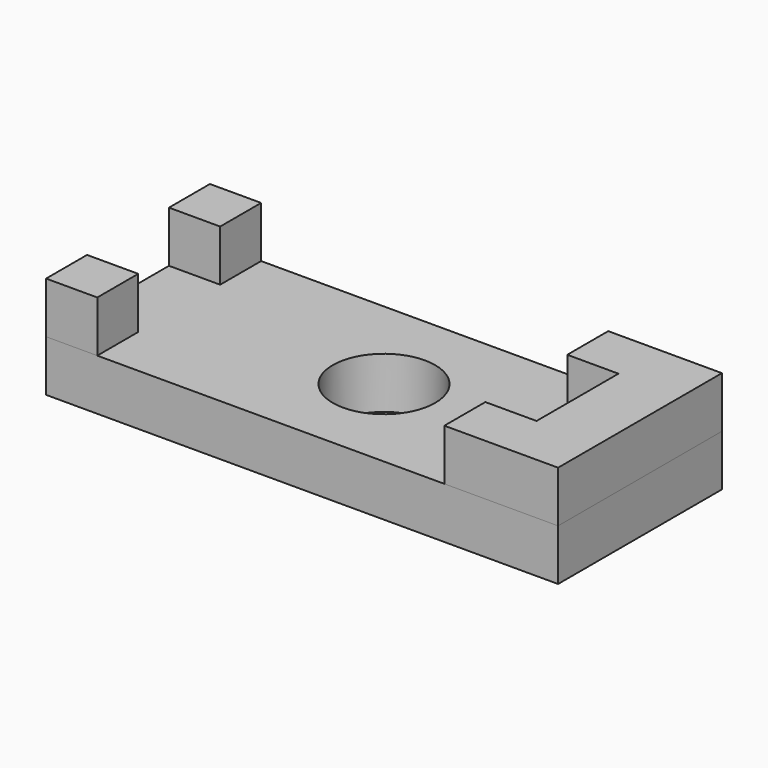
from build123d import *

# Parameters (mm, degrees)
F0_W     = 5
F0_H     = 5
F1_DEPTH = 10
F0_R     = 5
F2_DEPTH = 5


with BuildPart() as f1:
    # F0 (on Top) → F1 (new body)
    with BuildSketch(Plane.XY):
        with Locations((-18.959648, 9.928555)):
            Rectangle(F0_W, F0_H)
        Polygon((28.540352, 12.428555), (17.437041, 12.428555), (17.437041, 7.428555), (22.437041, 7.428555), (22.437041, -2.571445), (17.437041, -2.571445), (17.437041, -7.571445), (28.540352, -7.571445), align=None)
        with Locations((-18.959648, -5.071445)):
            Rectangle(F0_W, F0_H)
    extrude(amount=F1_DEPTH)


with BuildPart() as f2:
    # F0 (on Top) → F2 (new body)
    with BuildSketch(Plane.XY):
        with Locations((-18.959648, 9.928555)):
            Rectangle(F0_W, F0_H)
        Polygon((17.437041, 12.428555), (-16.459648, 12.428555), (-16.459648, 7.428555), (-21.459648, 7.428555), (-21.459648, -2.571445), (-16.459648, -2.571445), (-16.459648, -7.571445), (17.437041, -7.571445), (17.437041, -2.571445), (22.437041, -2.571445), (22.437041, 7.428555), (17.437041, 7.428555), align=None)
        with Locations((3.540352, 2.428555)):
            Circle(F0_R, mode=Mode.SUBTRACT)
        Polygon((28.540352, 12.428555), (17.437041, 12.428555), (17.437041, 7.428555), (22.437041, 7.428555), (22.437041, -2.571445), (17.437041, -2.571445), (17.437041, -7.571445), (28.540352, -7.571445), align=None)
        with Locations((-18.959648, -5.071445)):
            Rectangle(F0_W, F0_H)
    extrude(amount=F2_DEPTH)


solid = Compound([f1.part, f2.part])
